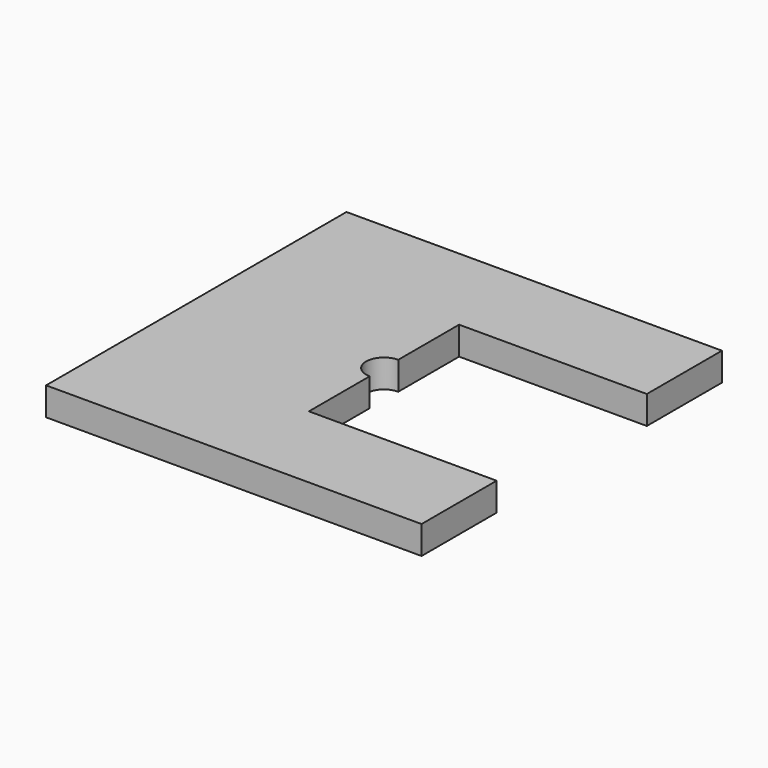
from build123d import *

# Parameters (mm, degrees)
F1_DEPTH = 3


with BuildPart() as f1:
    # F0 (on Top) → F1 (new body)
    with BuildSketch(Plane.XY):
        with BuildLine():
            Line((20, 20), (-20, 20))
            Line((-20, 20), (-20, -20))
            Line((-20, -20), (20, -20))
            Line((20, -20), (20, -10))
            Line((20, -10), (0, -10))
            Line((0, -10), (0, -1.9))
            ThreePointArc((0, -1.9), (-1.9, 0), (0, 1.9))
            Line((0, 1.9), (0, 10))
            Line((0, 10), (20, 10))
            Line((20, 10), (20, 20))
        make_face()
    extrude(amount=F1_DEPTH)


solid = f1.part
